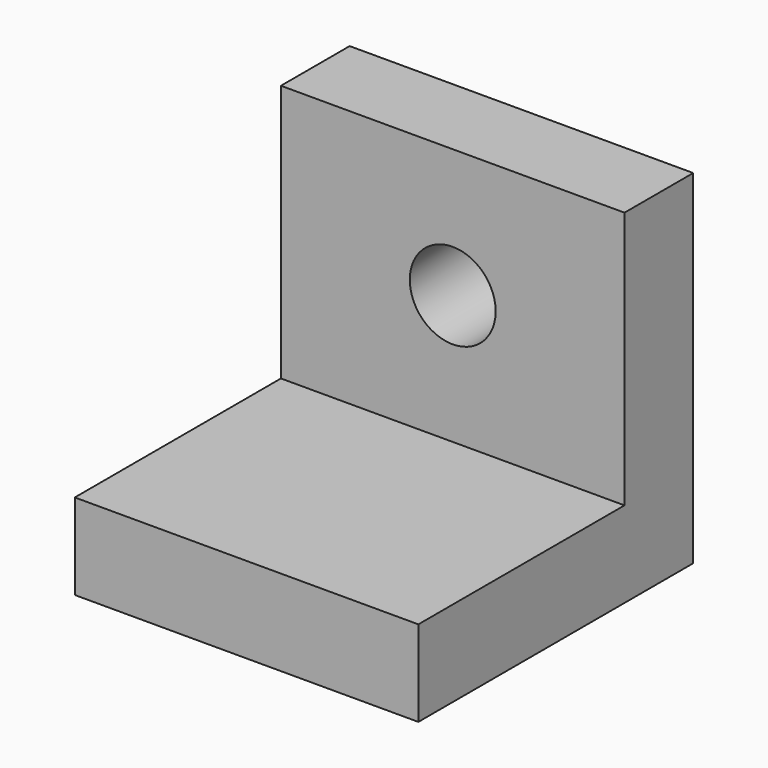
from build123d import *

# Parameters (mm, degrees)
F1_DEPTH = 50.8
F2_R     = 6.35
F3_DEPTH = 25.4


with BuildPart() as f1:
    # F0 (on Right) → F1 (new body)
    with BuildSketch(Plane.YZ):
        Polygon((-50.8, 0), (0, 0), (0, 50.8), (-12.7, 50.8), (-12.7, 12.7), (-50.8, 12.7), align=None)
    extrude(amount=F1_DEPTH)

    # F2 (on face) → F3 (cut)
    with BuildSketch(Plane.XZ.offset(12.7)):
        with Locations((25.4, 31.75)):
            Circle(F2_R)
    extrude(amount=-F3_DEPTH, mode=Mode.SUBTRACT)


solid = f1.part
